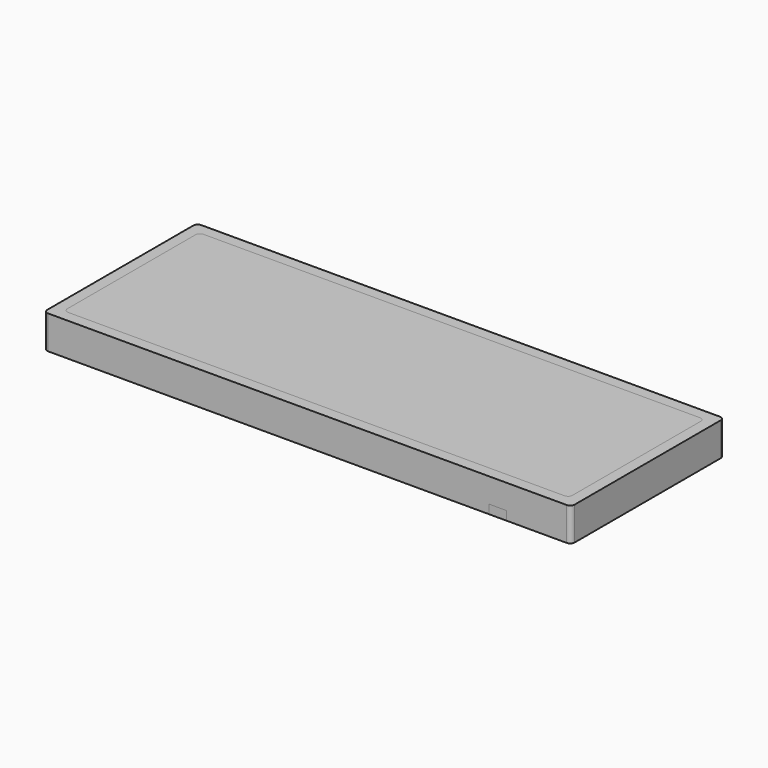
from build123d import *

# Parameters (mm, degrees)
EXTRUDE002_DEPTH = 15
BOX_W            = 8
BOX_H            = 8
BOX_DEPTH        = 4
EXTRUDE_DEPTH    = 15
EXTRUDE001_DEPTH = 15


with BuildPart() as extrude002:
    # Rectangle001 → Extrude002 (new body)
    with BuildSketch(Plane.XY):
        with BuildLine():
            Line((2, 0), (235, 0))
            ThreePointArc((235, 0), (236.414214, 0.585786), (237, 2))
            Line((237, 2), (237, 84))
            ThreePointArc((237, 84), (236.414214, 85.414214), (235, 86))
            Line((235, 86), (2, 86))
            ThreePointArc((2, 86), (0.585786, 85.414214), (0, 84))
            Line((0, 84), (0, 2))
            ThreePointArc((0, 2), (0.585786, 0.585786), (2, 0))
        make_face()
    extrude(amount=EXTRUDE002_DEPTH)


with BuildPart() as cube:
    # Box → Box (new body)
    with BuildSketch(Plane(origin=(200, 0, 0), x_dir=(1, 0, 0), z_dir=(0, 0, 1))):
        with Locations((4, 4)):
            Rectangle(BOX_W, BOX_H)
    extrude(amount=BOX_DEPTH)


with BuildPart() as extrude_body:
    # Rectangle → Extrude (new body)
    with BuildSketch(Plane(origin=(5, 5, 0), x_dir=(1, 0, 0), z_dir=(0, 0, 1))):
        with BuildLine():
            Line((2, 0), (225, 0))
            ThreePointArc((225, 0), (226.414214, 0.585786), (227, 2))
            Line((227, 2), (227, 74))
            ThreePointArc((227, 74), (226.414214, 75.414214), (225, 76))
            Line((225, 76), (2, 76))
            ThreePointArc((2, 76), (0.585786, 75.414214), (0, 74))
            Line((0, 74), (0, 2))
            ThreePointArc((0, 2), (0.585786, 0.585786), (2, 0))
        make_face()
    extrude(amount=EXTRUDE_DEPTH)


with BuildPart() as cut001:
    # Rectangle001 → Extrude001 (new body)
    with BuildSketch(Plane.XY):
        with BuildLine():
            Line((2, 0), (235, 0))
            ThreePointArc((235, 0), (236.414214, 0.585786), (237, 2))
            Line((237, 2), (237, 84))
            ThreePointArc((237, 84), (236.414214, 85.414214), (235, 86))
            Line((235, 86), (2, 86))
            ThreePointArc((2, 86), (0.585786, 85.414214), (0, 84))
            Line((0, 84), (0, 2))
            ThreePointArc((0, 2), (0.585786, 0.585786), (2, 0))
        make_face()
    extrude(amount=EXTRUDE001_DEPTH)

    # Cut: cut Extrude body
    add(extrude_body.part, mode=Mode.SUBTRACT)

    # Cut001: cut Cube
    add(cube.part, mode=Mode.SUBTRACT)


solid = Compound([extrude002.part, cut001.part])
